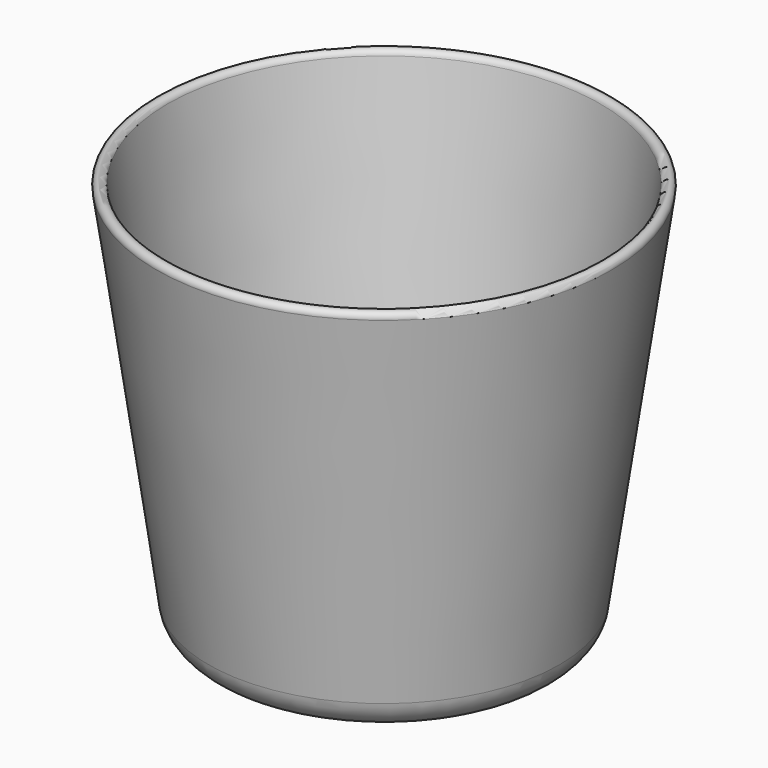
from build123d import *


with BuildPart() as f1:
    # F0 (on Front) → F1 (revolve)
    with BuildSketch(Plane.XZ):
        with BuildLine():
            Line((0, 12), (0, 0))
            Line((0, 0), (24.796228, 0))
            ThreePointArc((24.796228, 0), (28.727438, 1.467276), (30.735925, 5.151472))
            Line((30.735925, 5.151472), (39.83694, 68.858579))
            ThreePointArc((39.83694, 68.858579), (38.988412, 69.989949), (37.857041, 69.141421))
            Line((37.857041, 69.141421), (30.307251, 16.292893))
            ThreePointArc((30.307251, 16.292893), (28.633512, 13.22273), (25.357504, 12))
            Line((25.357504, 12), (0, 12))
        make_face()
    revolve(axis=Axis((0, 0, 6), (0, 0, 1)))


solid = f1.part
